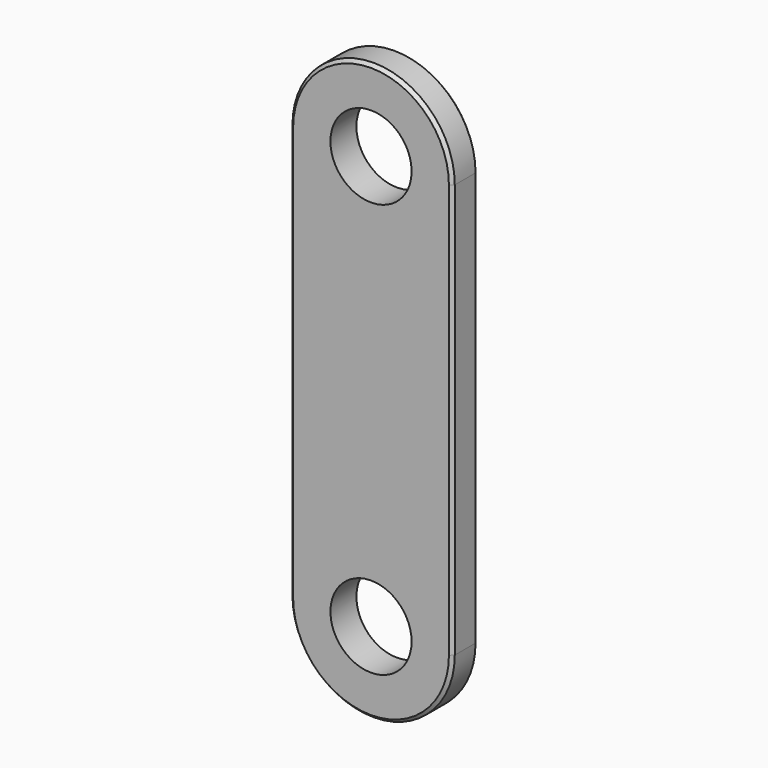
from build123d import *

# Parameters (mm, degrees)
F1_DEPTH = 20
F2_SIZE2 = 2
F2_SIZE  = 2


with BuildPart() as f1:
    # F0 (on Front) → F1 (new body)
    with BuildSketch(Plane.XZ):
        with BuildLine():
            ThreePointArc((25, 0), (50, 25), (75, 0))
            Line((75, 0), (100, 0))
            ThreePointArc((100, 0), (50, 50), (0, 0))
            Line((0, 0), (25, 0))
        make_face()
        with BuildLine():
            Line((100, 0), (75, 0))
            ThreePointArc((75, 0), (50, -25), (25, 0))
            Line((25, 0), (0, 0))
            ThreePointArc((0, 0), (50, -50), (100, 0))
        make_face()
        with BuildLine():
            ThreePointArc((0, 0), (50, 50), (100, 0))
            Line((100, 0), (100, 255))
            ThreePointArc((100, 255), (50, 205), (0, 255))
            Line((0, 255), (0, 0))
        make_face()
        with BuildLine():
            ThreePointArc((0, 255), (50, 205), (100, 255))
            Line((100, 255), (75, 255))
            ThreePointArc((75, 255), (50, 230), (25, 255))
            Line((25, 255), (0, 255))
        make_face()
        with BuildLine():
            Line((75, 255), (100, 255))
            ThreePointArc((100, 255), (50, 305), (0, 255))
            Line((0, 255), (25, 255))
            ThreePointArc((25, 255), (50, 280), (75, 255))
        make_face()
    extrude(amount=F1_DEPTH)

    # F2
    f2_edges = [f1.edges().sort_by_distance(p)[0] for p in [
        (100, -20, 127.5),
        (100, 0, 127.5),
    ]]
    chamfer(f2_edges, length=F2_SIZE, length2=F2_SIZE2)


solid = f1.part
